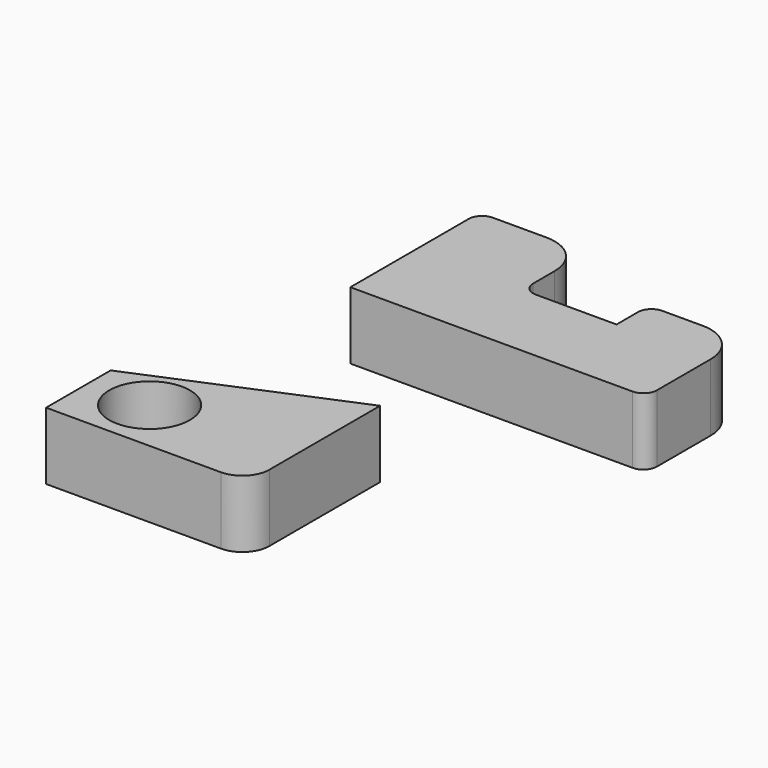
from build123d import *

# Parameters (mm, degrees)
F1_DEPTH = 25
F0_R     = 15
F2_DEPTH = 25


with BuildPart() as f1:
    # F0 (on Top) → F1 (new body)
    with BuildSketch(Plane.XY):
        with BuildLine():
            Line((-79.157276, 32.343172), (-79.157276, -22.656828))
            Line((-79.157276, -22.656828), (25.842724, -22.656828))
            ThreePointArc((25.842724, -22.656828), (29.378258, -21.192362), (30.842724, -17.656828))
            Line((30.842724, -17.656828), (30.842724, 7.343172))
            ThreePointArc((30.842724, 7.343172), (26.449325, 17.949774), (15.842724, 22.343172))
            Line((15.842724, 22.343172), (0.842724, 22.343172))
            ThreePointArc((0.842724, 22.343172), (-2.69281, 20.878706), (-4.157276, 17.343172))
            Line((-4.157276, 17.343172), (-4.157276, 7.343172))
            Line((-4.157276, 7.343172), (-34.157276, 7.343172))
            ThreePointArc((-34.157276, 7.343172), (-37.69281, 8.807638), (-39.157276, 12.343172))
            Line((-39.157276, 12.343172), (-39.157276, 22.343172))
            ThreePointArc((-39.157276, 22.343172), (-43.550675, 32.949774), (-54.157276, 37.343172))
            Line((-54.157276, 37.343172), (-74.157276, 37.343172))
            ThreePointArc((-74.157276, 37.343172), (-77.69281, 35.878706), (-79.157276, 32.343172))
        make_face()
    extrude(amount=F1_DEPTH)


with BuildPart() as f2:
    # F0 (on Top) → F2 (new body)
    with BuildSketch(Plane.XY):
        with BuildLine():
            Line((-100.830384, -116.991277), (-100.830384, -136.991277))
            Line((-100.830384, -136.991277), (-78.330384, -136.991277))
            Line((-78.330384, -136.991277), (-35.830384, -136.991277))
            ThreePointArc((-35.830384, -136.991277), (-28.759316, -134.062345), (-25.830384, -126.991277))
            Line((-25.830384, -126.991277), (-25.830384, -75.472742))
            Line((-25.830384, -75.472742), (-100.830384, -106.991277))
            Line((-100.830384, -106.991277), (-100.830384, -116.991277))
        make_face()
        with Locations((-78.330384, -116.991277)):
            Circle(F0_R, mode=Mode.SUBTRACT)
    extrude(amount=F2_DEPTH)


solid = Compound([f1.part, f2.part])
